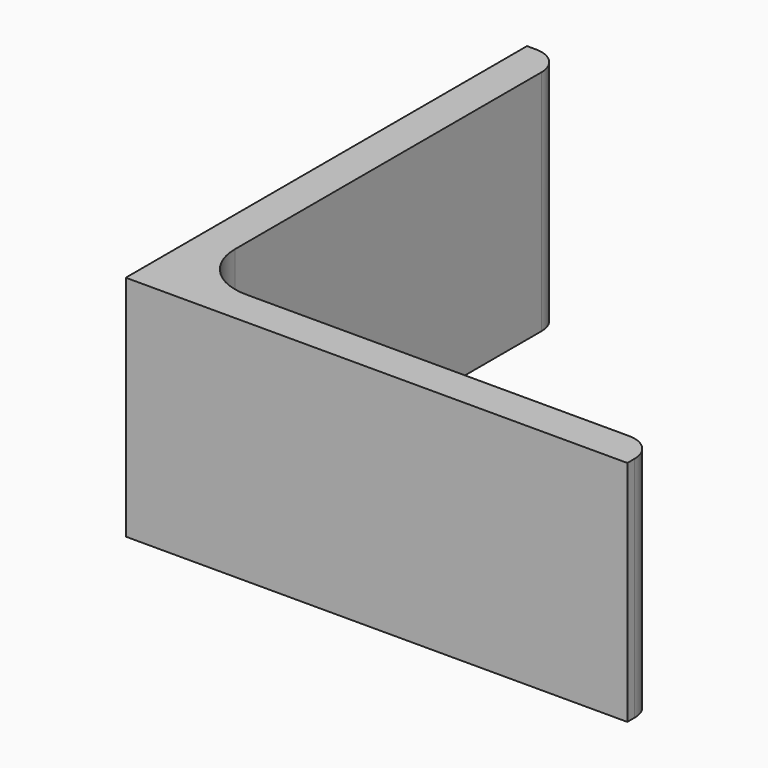
from build123d import *

# Parameters (mm, degrees)
EXTRUDE_DEPTH = 50


with BuildPart() as part:
    # Sketch → Extrude (new body)
    with BuildSketch(Plane.XY):
        with BuildLine():
            Line((0, 0), (110, 0))
            Line((110, 0), (110, 2))
            ThreePointArc((110, 2), (108.242641, 6.242641), (104, 8))
            Line((104, 8), (20, 8))
            ThreePointArc((8, 20), (11.514719, 11.514719), (20, 8))
            Line((8, 104), (8, 20))
            ThreePointArc((8, 104), (6.242641, 108.242641), (2, 110))
            Line((0, 110), (2, 110))
            Line((0, 0), (0, 110))
        make_face()
    extrude(amount=EXTRUDE_DEPTH)


solid = part.part
